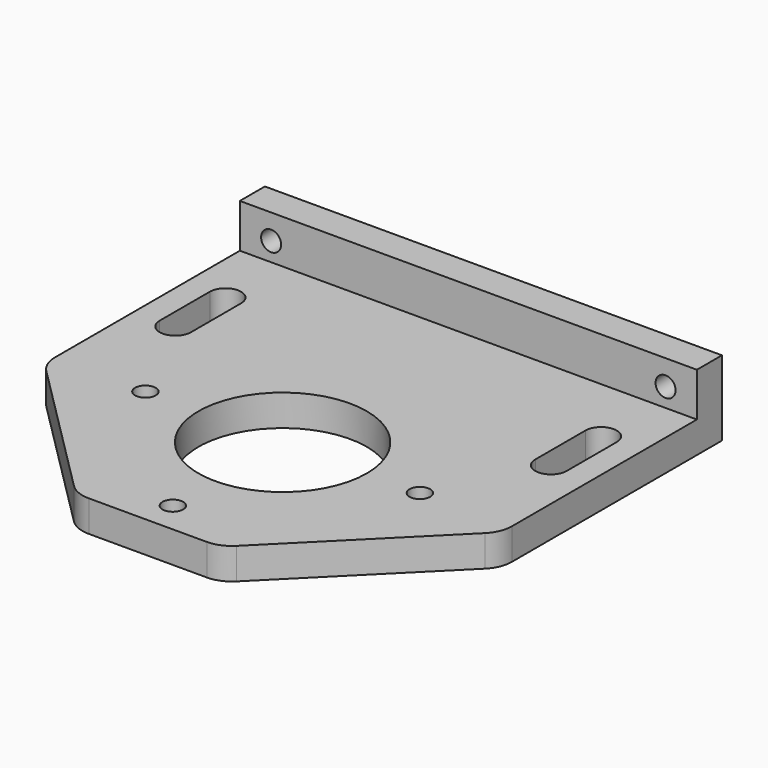
from build123d import *

# Parameters (mm, degrees)
F0_W     = 73
F0_H     = 59
F1_DEPTH = 5
F2_SIZE  = 25
F4_D     = 3.3
F4_DEPTH = 13.8
F4_TIP   = 0.9914200214
F3_R     = 13.4455987062
F5_DEPTH = 5
F6_W     = 73
F6_H     = 5
F7_DEPTH = 5
F8_W     = 73
F8_H     = 12
F9_DEPTH = 5
F11_D    = 3.2
F12_R    = 5


with BuildPart() as f1:
    # F0 (on Top) → F1 (new body)
    with BuildSketch(Plane.XY):
        Rectangle(F0_W, F0_H)
        with BuildLine():
            Line((-32.5, 13.5), (-32.5, 23.5))
            ThreePointArc((-32.5, 23.5), (-30, 26), (-27.5, 23.5))
            Line((-27.5, 23.5), (-27.5, 13.5))
            ThreePointArc((-27.5, 13.5), (-30, 11), (-32.5, 13.5))
        make_face(mode=Mode.SUBTRACT)
        with BuildLine():
            Line((27.5, 13.5), (27.5, 23.5))
            ThreePointArc((27.5, 23.5), (30, 26), (32.5, 23.5))
            Line((32.5, 23.5), (32.5, 13.5))
            ThreePointArc((32.5, 13.5), (30, 11), (27.5, 13.5))
        make_face(mode=Mode.SUBTRACT)
    extrude(amount=F1_DEPTH)

    # F2
    f2_edges = [f1.edges().sort_by_distance(p)[0] for p in [
        (-36.5, -29.5, 2.5),
        (36.5, -29.5, 2.5),
    ]]
    chamfer(f2_edges, length=F2_SIZE)

    # F4
    with Locations(Plane.XY.offset(5)):
        with Locations((-21.9203102168, -2.5796897832), (0, -24.5), (21.9203102168, -2.5796897832)):
            Hole(F4_D / 2, depth=F4_DEPTH)
            with Locations((0, 0, -(F4_DEPTH + F4_TIP / 2))):  # 118° drill point
                Cone(0, F4_D / 2, F4_TIP, mode=Mode.SUBTRACT)

    # F3 (on face) → F5 (cut, through all)
    with BuildSketch(Plane.XY.offset(5)):
        with Locations((0, -2.5796897832)):
            Circle(F3_R)
    extrude(amount=-F5_DEPTH, mode=Mode.SUBTRACT)

    # F6 (on face) → F7 (join)
    with BuildSketch(Plane(origin=(0, 29.5, 0), x_dir=(-1, 0, 0), z_dir=(0, 1, 0))):
        with Locations((0, 2.5)):
            Rectangle(F6_W, F6_H)
    extrude(amount=F7_DEPTH)

    # F8 (on face) → F9 (join)
    with BuildSketch(Plane(origin=(0, 34.5, 0), x_dir=(-1, 0, 0), z_dir=(0, 1, 0))):
        with Locations((0, 6)):
            Rectangle(F8_W, F8_H)
    extrude(amount=F9_DEPTH)

    # F11 (through all)
    with Locations(Plane(origin=(0, 39.5, 0), x_dir=(-1, 0, 0), z_dir=(0, 1, 0))):
        with Locations((-31.5, 8), (31.5, 8)):
            Hole(F11_D / 2)

    # F12
    f12_edges = [f1.edges().sort_by_distance(p)[0] for p in [
        (36.5, -4.5, 2.5),
        (11.5, -29.5, 2.5),
        (-11.5, -29.5, 2.5),
        (-36.5, -4.5, 2.5),
    ]]
    fillet(f12_edges, radius=F12_R)


solid = f1.part
